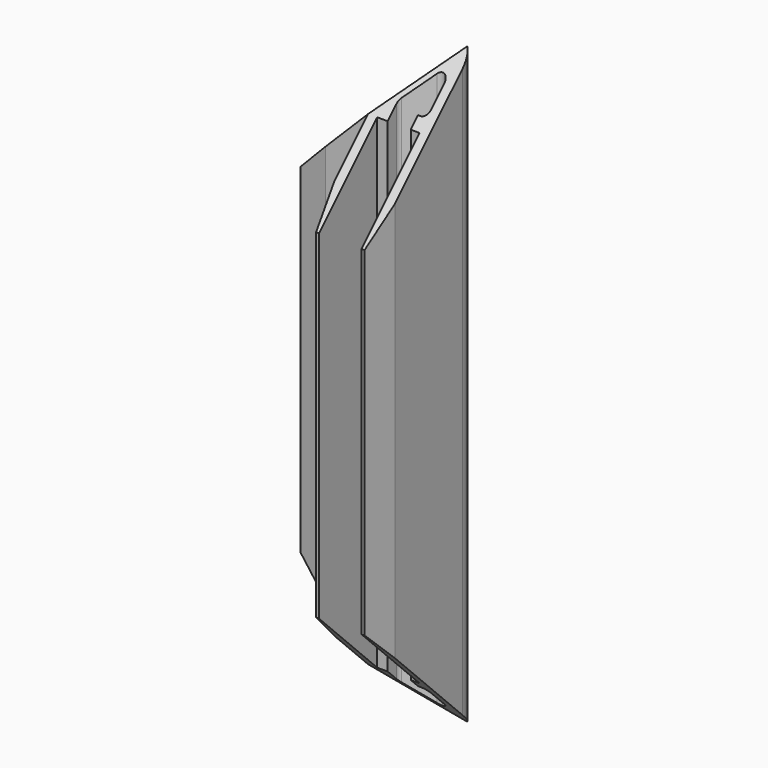
from build123d import *

# Parameters (mm, degrees)
F1_DEPTH   = 50
F2_SIZE2   = 1
F2_SIZE    = 5
F2_2_SIZE2 = 1
F2_2_SIZE  = 5
F3_SIZE2   = 5
F3_SIZE    = 1
F3_2_SIZE2 = 5
F3_2_SIZE  = 1
F4_R       = 1
F7_DEPTH   = 25
F8_DEPTH   = 25


with BuildPart() as f1:
    # F0 (on Top) → F1 (new body, symmetric)
    with BuildSketch(Plane.XY):
        with BuildLine():
            Line((-3, 0), (-22, 0))
            Line((-22, 0), (-22, -1.5))
            Line((-22, -1.5), (-10, -1.5))
            Line((-10, -1.5), (-10, -2.9619401321))
            Line((-10, -2.9619401321), (-8.5, -2.9619401321))
            Line((-8.5, -2.9619401321), (-8.5, -1.5))
            Line((-8.5, -1.5), (-2.5606601718, -1.5))
            Line((-2.5606601718, -1.5), (-7.8245233162, -6.7638631444))
            Line((-7.8245233162, -6.7638631444), (-10, -6.7638631444))
            Line((-10, -6.7638631444), (-10, -8.5))
            Line((-10, -8.5), (-22, -8.5))
            Line((-22, -8.5), (-22, -10))
            Line((-22, -10), (-10, -10))
            Line((-10, -10), (-10, -22))
            Line((-10, -22), (-8.5, -22))
            Line((-8.5, -22), (-8.5, -10))
            Line((-8.5, -10), (-6.7638631444, -10))
            Line((-6.7638631444, -10), (-6.7638631444, -7.8245233162))
            Line((-6.7638631444, -7.8245233162), (-1.5, -2.5606601718))
            Line((-1.5, -2.5606601718), (-1.5, -8.5))
            Line((-1.5, -8.5), (-2.9619401321, -8.5))
            Line((-2.9619401321, -8.5), (-2.9619401321, -10))
            Line((-2.9619401321, -10), (-1.5, -10))
            Line((-1.5, -10), (-1.5, -22))
            Line((-1.5, -22), (0, -22))
            Line((0, -22), (0, -3))
            ThreePointArc((0, -3), (-0.8786796564, -0.8786796564), (-3, 0))
        make_face()
    extrude(amount=F1_DEPTH, both=True)

    # F2
    f2_edges = [f1.edges().sort_by_distance(p)[0] for p in [
        (-22, -10, 0),
    ]]
    f2_side = f1.faces().sort_by_distance((-16, -10, 0))[0]
    chamfer(f2_edges, length=F2_SIZE, length2=F2_SIZE2, reference=f2_side)

    # F2#2
    f2_2_edges = [f1.edges().sort_by_distance(p)[0] for p in [
        (0, -22, 0),
    ]]
    f2_2_side = f1.faces().sort_by_distance((0, -12.5, 0))[0]
    chamfer(f2_2_edges, length=F2_2_SIZE, length2=F2_2_SIZE2, reference=f2_2_side)

    # F3
    f3_edges = [f1.edges().sort_by_distance(p)[0] for p in [
        (-22, 0, 0),
    ]]
    f3_side = f1.faces().sort_by_distance((-22, -0.75, 0))[0]
    chamfer(f3_edges, length=F3_SIZE, length2=F3_SIZE2, reference=f3_side)

    # F3#2
    f3_2_edges = [f1.edges().sort_by_distance(p)[0] for p in [
        (-10, -22, 0),
    ]]
    f3_2_side = f1.faces().sort_by_distance((-9.25, -22, 0))[0]
    chamfer(f3_2_edges, length=F3_2_SIZE, length2=F3_2_SIZE2, reference=f3_2_side)

    # F4
    f4_edges = [f1.edges().sort_by_distance(p)[0] for p in [
        (-2.56066, -1.5, 0),
        (-1.5, -2.56066, 0),
        (-6.763863, -7.824523, 0),
        (-7.824523, -6.763863, 0),
        (-1.5, -8.5, 0),
        (-8.5, -1.5, 0),
    ]]
    fillet(f4_edges, radius=F4_R)

    # F5 (on Front) → F7 (cut)
    with BuildSketch(Plane.XZ):
        Polygon((0, 50), (-22, 50), (-22, 28), align=None)
        Polygon((-22, -28), (-22, -50), (0, -50), align=None)
    extrude(amount=F7_DEPTH, mode=Mode.SUBTRACT)

    # F6 (on Right) → F8 (cut)
    with BuildSketch(Plane.YZ):
        Polygon((-22, 28), (0, 50), (-22, 50), align=None)
        Polygon((-22, -50), (0, -50), (-22, -28), align=None)
    extrude(amount=-F8_DEPTH, mode=Mode.SUBTRACT)


solid = f1.part
